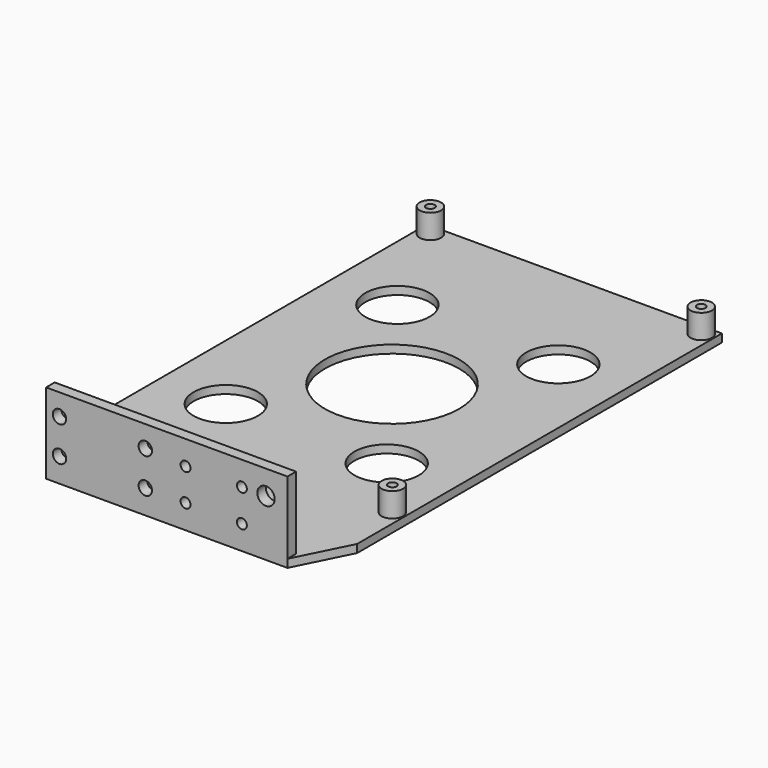
from build123d import *

# Parameters (mm, degrees)
SKETCH001_R                          = 4
SKETCH001_R_2                        = 1.6
EXTRUDE001_DEPTH                     = 12
SKETCH002_AS_DRAWN_W                 = 90
SKETCH002_AS_DRAWN_H                 = 30
SKETCH002_AS_DRAWN_R                 = 2.5
SKETCH002_AS_DRAWN_R_2               = 1.85
SKETCH002_AS_DRAWN_R_3               = 3.25
EXTRUDE002_DEPTH                     = 4
EXTRUDE002_ONTO_SKETCH002_ROLL_ANGLE = 90
SKETCH_R                             = 1.9
SKETCH_R_2                           = 12
SKETCH_R_3                           = 25
EXTRUDE_DEPTH                        = 3


with BuildPart() as extrude001:
    # Sketch001 → Extrude001 (new body)
    with BuildSketch(Plane.XY):
        with Locations((-50.5, -81)):
            Circle(SKETCH001_R)
        with Locations((-50.5, -81)):
            Circle(SKETCH001_R_2, mode=Mode.SUBTRACT)
        with Locations((50.5, -63)):
            Circle(SKETCH001_R)
        with Locations((50.5, -63)):
            Circle(SKETCH001_R_2, mode=Mode.SUBTRACT)
        with Locations((-50.5, 81)):
            Circle(SKETCH001_R)
        with Locations((-50.5, 81)):
            Circle(SKETCH001_R_2, mode=Mode.SUBTRACT)
        with Locations((50.5, 81)):
            Circle(SKETCH001_R)
        with Locations((50.5, 81)):
            Circle(SKETCH001_R_2, mode=Mode.SUBTRACT)
    extrude(amount=EXTRUDE001_DEPTH)


with BuildPart() as extrude002:
    # Sketch002 as drawn → Extrude002 (new)
    with BuildSketch(Plane.XY):
        with Locations((0, 15)):
            Rectangle(SKETCH002_AS_DRAWN_W, SKETCH002_AS_DRAWN_H)
        with Locations((-40, 9)):
            Circle(SKETCH002_AS_DRAWN_R, mode=Mode.SUBTRACT)
        with Locations((-40, 22)):
            Circle(SKETCH002_AS_DRAWN_R, mode=Mode.SUBTRACT)
        with Locations((-8, 22)):
            Circle(SKETCH002_AS_DRAWN_R, mode=Mode.SUBTRACT)
        with Locations((-8, 9)):
            Circle(SKETCH002_AS_DRAWN_R, mode=Mode.SUBTRACT)
        with Locations((7, 21)):
            Circle(SKETCH002_AS_DRAWN_R_2, mode=Mode.SUBTRACT)
        with Locations((28, 21)):
            Circle(SKETCH002_AS_DRAWN_R_2, mode=Mode.SUBTRACT)
        with Locations((7, 9)):
            Circle(SKETCH002_AS_DRAWN_R_2, mode=Mode.SUBTRACT)
        with Locations((28, 9)):
            Circle(SKETCH002_AS_DRAWN_R_2, mode=Mode.SUBTRACT)
        with Locations((37, 21)):
            Circle(SKETCH002_AS_DRAWN_R_3, mode=Mode.SUBTRACT)
    extrude(amount=-EXTRUDE002_DEPTH)


with BuildPart() as extrude002_1:
    # Extrude002 onto Sketch002 roll: moved
    add(extrude002.part.rotate(Axis((0, 0, 0), (1, 0, 0)), EXTRUDE002_ONTO_SKETCH002_ROLL_ANGLE))


with BuildPart() as extrude002_2:
    # Extrude002 onto Sketch002 placement: moved
    add(extrude002_1.part)


with BuildPart() as extrude002_3:
    # Extrude002 placement: moved
    add(extrude002_2.part.moved(Location((0, -105, 0))))


with BuildPart() as fusion:
    # Sketch → Extrude (new body)
    with BuildSketch(Plane.XY):
        Polygon((-55, 85), (55, 85), (55, -85), (45, -105), (-45, -105), (-55, -85), align=None)
        with Locations((-50.5, -81)):
            Circle(SKETCH_R, mode=Mode.SUBTRACT)
        with Locations((50.5, -63)):
            Circle(SKETCH_R, mode=Mode.SUBTRACT)
        with Locations((50.5, 81)):
            Circle(SKETCH_R, mode=Mode.SUBTRACT)
        with Locations((-50.5, 81)):
            Circle(SKETCH_R, mode=Mode.SUBTRACT)
        with Locations((-30, 40)):
            Circle(SKETCH_R_2, mode=Mode.SUBTRACT)
        with Locations((30, 40)):
            Circle(SKETCH_R_2, mode=Mode.SUBTRACT)
        with Locations((30, -40)):
            Circle(SKETCH_R_2, mode=Mode.SUBTRACT)
        with Locations((-30, -40)):
            Circle(SKETCH_R_2, mode=Mode.SUBTRACT)
        Circle(SKETCH_R_3, mode=Mode.SUBTRACT)
        with BuildLine():
            ThreePointArc((-40, -89), (-45.75, -94.75), (-40, -100.5))
            Line((-40, -100.5), (-37, -100.5))
            ThreePointArc((-37, -100.5), (-31.25, -94.75), (-37, -89))
            Line((-40, -89), (-37, -89))
        make_face(mode=Mode.SUBTRACT)
        with BuildLine():
            ThreePointArc((-11, -89), (-16.75, -94.75), (-11, -100.5))
            Line((-11, -100.5), (-8, -100.5))
            ThreePointArc((-8, -100.5), (-2.25, -94.75), (-8, -89))
            Line((-11, -89), (-8, -89))
        make_face(mode=Mode.SUBTRACT)
    extrude(amount=EXTRUDE_DEPTH)

    # Fusion: union Extrude001, Extrude002
    add(extrude001.part)
    add(extrude002_3.part)


solid = fusion.part
